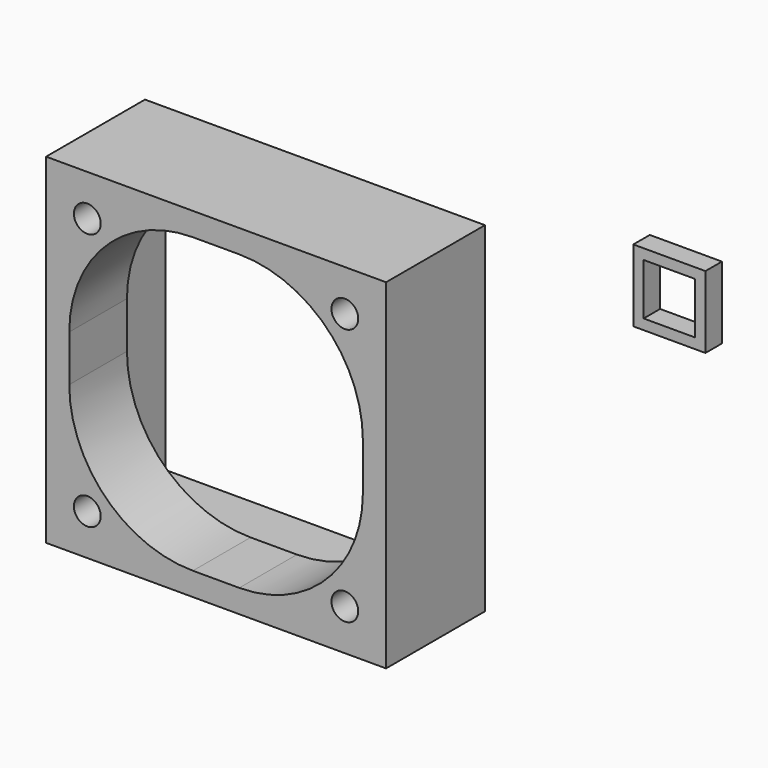
from build123d import *

# Parameters (mm, degrees)
F0_W     = 33
F0_H     = 33
F0_R     = 1.3
F2_DEPTH = 7
F3_W     = 33
F3_H     = 33
F3_W_2   = 29
F3_H_2   = 29
F4_DEPTH = 5
F5_W     = 7
F5_H     = 7
F5_W_2   = 5
F5_H_2   = 5
F6_DEPTH = 2


with BuildPart() as f2:
    # F0 (on Front) → F2 (new body)
    with BuildSketch(Plane.XZ):
        Rectangle(F0_W, F0_H)
        with Locations((-12.5, -12.5)):
            Circle(F0_R, mode=Mode.SUBTRACT)
        with Locations((12.5, -12.5)):
            Circle(F0_R, mode=Mode.SUBTRACT)
        with Locations((-12.5, 12.5)):
            Circle(F0_R, mode=Mode.SUBTRACT)
        with BuildLine():
            ThreePointArc((14.25, -2.25), (10.735281, -10.735281), (2.25, -14.25))
            Line((2.25, -14.25), (-2.25, -14.25))
            ThreePointArc((-2.25, -14.25), (-10.735281, -10.735281), (-14.25, -2.25))
            Line((-14.25, -2.25), (-14.25, 2.25))
            ThreePointArc((-14.25, 2.25), (-10.735281, 10.735281), (-2.25, 14.25))
            Line((-2.25, 14.25), (2.25, 14.25))
            ThreePointArc((2.25, 14.25), (10.735281, 10.735281), (14.25, 2.25))
            Line((14.25, 2.25), (14.25, -2.25))
        make_face(mode=Mode.SUBTRACT)
        with Locations((12.5, 12.5)):
            Circle(F0_R, mode=Mode.SUBTRACT)
    extrude(amount=F2_DEPTH)

    # F3 (on face) → F4 (join)
    with BuildSketch(Plane(origin=(0, 0, 0), x_dir=(-1, 0, 0), z_dir=(0, 1, 0))):
        Rectangle(F3_W, F3_H)
        Rectangle(F3_W_2, F3_H_2, mode=Mode.SUBTRACT)
    extrude(amount=F4_DEPTH)


with BuildPart() as f6:
    # F5 (on offset) → F6 (new body)
    with BuildSketch(Plane.XZ.offset(-50)):
        with Locations((0, -12.631277)):
            Rectangle(F5_W, F5_H)
        with Locations((0, -12.631277)):
            Rectangle(F5_W_2, F5_H_2, mode=Mode.SUBTRACT)
    extrude(amount=F6_DEPTH)


solid = Compound([f2.part, f6.part])
